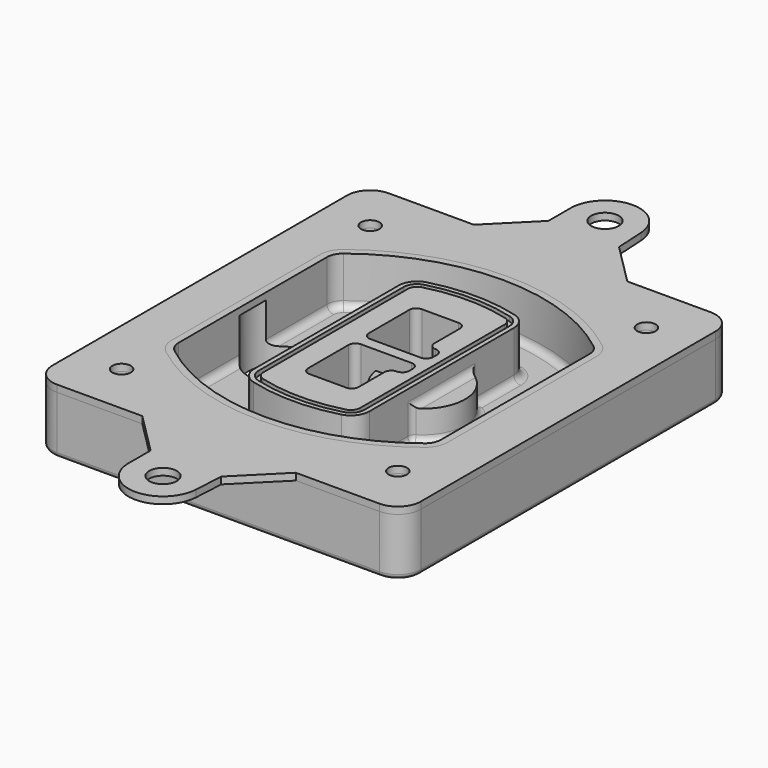
from build123d import *

# Parameters (mm, degrees)
F0_R      = 4
F1_DEPTH  = 25
F2_DEPTH  = 3
F3_DEPTH  = 18
F5_DEPTH  = 21
F6_DEPTH  = 2
F8_DEPTH  = 20
F9_DEPTH  = 16
F10_DEPTH = 25
F7_R      = 6
F7_R_2    = 4
F11_DEPTH = 6
F13_DEPTH = 9
F14_R     = 3
F15_R     = 2
F16_R     = 6
F16_R_2   = 4
F17_DEPTH = 3


with BuildPart() as f1:
    # F0 (on Top) → F1 (new body)
    with BuildSketch(Plane.XY):
        with BuildLine():
            ThreePointArc((-80, -80), (-77.0710678119, -87.0710678119), (-70, -90))
            Line((-70, -90), (70, -90))
            ThreePointArc((70, -90), (77.0710678119, -87.0710678119), (80, -80))
            Line((80, -80), (80, 80))
            ThreePointArc((80, 80), (77.0710678119, 87.0710678119), (70, 90))
            Line((70, 90), (-70, 90))
            ThreePointArc((-70, 90), (-77.0710678119, 87.0710678119), (-80, 80))
            Line((-80, 80), (-80, -80))
        make_face()
        with Locations((-60, -67.5)):
            Circle(F0_R, mode=Mode.SUBTRACT)
        with Locations((60, -67.5)):
            Circle(F0_R, mode=Mode.SUBTRACT)
        with Locations((-60, 67.5)):
            Circle(F0_R, mode=Mode.SUBTRACT)
        with BuildLine():
            ThreePointArc((-64, 40.2934422872), (-62.5820384798, 46.4328484224), (-58.6153846154, 51.3286200352))
            ThreePointArc((-58.6153846154, 51.3286200352), (0, 71.5), (58.6153846154, 51.3286200352))
            ThreePointArc((58.6153846154, 51.3286200352), (62.5820384798, 46.4328484224), (64, 40.2934422872))
            Line((64, 40.2934422872), (64, -40.2934422872))
            ThreePointArc((64, -40.2934422872), (62.5820384798, -46.4328484224), (58.6153846154, -51.3286200352))
            ThreePointArc((58.6153846154, -51.3286200352), (0, -71.5), (-58.6153846154, -51.3286200352))
            ThreePointArc((-58.6153846154, -51.3286200352), (-62.5820384798, -46.4328484224), (-64, -40.2934422872))
            Line((-64, -40.2934422872), (-64, 40.2934422872))
        make_face(mode=Mode.SUBTRACT)
        with Locations((60, 67.5)):
            Circle(F0_R, mode=Mode.SUBTRACT)
        with BuildLine():
            ThreePointArc((58.6153846154, 51.3286200352), (0, 71.5), (-58.6153846154, 51.3286200352))
            ThreePointArc((-58.6153846154, 51.3286200352), (-62.5820384798, 46.4328484224), (-64, 40.2934422872))
            Line((-64, 40.2934422872), (-64, -40.2934422872))
            ThreePointArc((-64, -40.2934422872), (-62.5820384798, -46.4328484224), (-58.6153846154, -51.3286200352))
            ThreePointArc((-58.6153846154, -51.3286200352), (0, -71.5), (58.6153846154, -51.3286200352))
            ThreePointArc((58.6153846154, -51.3286200352), (62.5820384798, -46.4328484224), (64, -40.2934422872))
            Line((64, -40.2934422872), (64, 40.2934422872))
            ThreePointArc((64, 40.2934422872), (62.5820384798, 46.4328484224), (58.6153846154, 51.3286200352))
        make_face()
        with BuildLine():
            Line((-60, -40.2934422872), (-60, 40.2934422872))
            ThreePointArc((-60, 40.2934422872), (-58.9871703427, 44.6787323838), (-56.1538461538, 48.1757121072))
            ThreePointArc((-56.1538461538, 48.1757121072), (0, 67.5), (56.1538461538, 48.1757121072))
            ThreePointArc((56.1538461538, 48.1757121072), (58.9871703427, 44.6787323838), (60, 40.2934422872))
            Line((60, 40.2934422872), (60, -40.2934422872))
            ThreePointArc((60, -40.2934422872), (58.9871703427, -44.6787323838), (56.1538461538, -48.1757121072))
            ThreePointArc((56.1538461538, -48.1757121072), (0, -67.5), (-56.1538461538, -48.1757121072))
            ThreePointArc((-56.1538461538, -48.1757121072), (-58.9871703427, -44.6787323838), (-60, -40.2934422872))
        make_face(mode=Mode.SUBTRACT)
        with BuildLine():
            ThreePointArc((-56.1538461538, 48.1757121072), (-58.9871703427, 44.6787323838), (-60, 40.2934422872))
            Line((-60, 40.2934422872), (-60, -40.2934422872))
            ThreePointArc((-60, -40.2934422872), (-58.9871703427, -44.6787323838), (-56.1538461538, -48.1757121072))
            ThreePointArc((-56.1538461538, -48.1757121072), (0, -67.5), (56.1538461538, -48.1757121072))
            ThreePointArc((56.1538461538, -48.1757121072), (58.9871703427, -44.6787323838), (60, -40.2934422872))
            Line((60, -40.2934422872), (60, 40.2934422872))
            ThreePointArc((60, 40.2934422872), (58.9871703427, 44.6787323838), (56.1538461538, 48.1757121072))
            ThreePointArc((56.1538461538, 48.1757121072), (0, 67.5), (-56.1538461538, 48.1757121072))
        make_face()
        with BuildLine():
            ThreePointArc((54.3076923077, 45.8110311612), (56.2910192399, 43.3631453548), (57, 40.2934422872))
            Line((57, 40.2934422872), (57, -40.2934422872))
            ThreePointArc((57, -40.2934422872), (56.2910192399, -43.3631453548), (54.3076923077, -45.8110311612))
            ThreePointArc((54.3076923077, -45.8110311612), (0, -64.5), (-54.3076923077, -45.8110311612))
            ThreePointArc((-54.3076923077, -45.8110311612), (-56.2910192399, -43.3631453548), (-57, -40.2934422872))
            Line((-57, -40.2934422872), (-57, 40.2934422872))
            ThreePointArc((-57, 40.2934422872), (-56.2910192399, 43.3631453548), (-54.3076923077, 45.8110311612))
            ThreePointArc((-54.3076923077, 45.8110311612), (0, 64.5), (54.3076923077, 45.8110311612))
        make_face(mode=Mode.SUBTRACT)
        with BuildLine():
            Line((57, -40.2934422872), (57, 40.2934422872))
            ThreePointArc((57, 40.2934422872), (56.2910192399, 43.3631453548), (54.3076923077, 45.8110311612))
            ThreePointArc((54.3076923077, 45.8110311612), (0, 64.5), (-54.3076923077, 45.8110311612))
            ThreePointArc((-54.3076923077, 45.8110311612), (-56.2910192399, 43.3631453548), (-57, 40.2934422872))
            Line((-57, 40.2934422872), (-57, -40.2934422872))
            ThreePointArc((-57, -40.2934422872), (-56.2910192399, -43.3631453548), (-54.3076923077, -45.8110311612))
            ThreePointArc((-54.3076923077, -45.8110311612), (0, -64.5), (54.3076923077, -45.8110311612))
            ThreePointArc((54.3076923077, -45.8110311612), (56.2910192399, -43.3631453548), (57, -40.2934422872))
        make_face()
    extrude(amount=-F1_DEPTH)

    # F0 (on Top) → F2 (join)
    with BuildSketch(Plane.XY):
        with BuildLine():
            ThreePointArc((-56.1538461538, 48.1757121072), (-58.9871703427, 44.6787323838), (-60, 40.2934422872))
            Line((-60, 40.2934422872), (-60, -40.2934422872))
            ThreePointArc((-60, -40.2934422872), (-58.9871703427, -44.6787323838), (-56.1538461538, -48.1757121072))
            ThreePointArc((-56.1538461538, -48.1757121072), (0, -67.5), (56.1538461538, -48.1757121072))
            ThreePointArc((56.1538461538, -48.1757121072), (58.9871703427, -44.6787323838), (60, -40.2934422872))
            Line((60, -40.2934422872), (60, 40.2934422872))
            ThreePointArc((60, 40.2934422872), (58.9871703427, 44.6787323838), (56.1538461538, 48.1757121072))
            ThreePointArc((56.1538461538, 48.1757121072), (0, 67.5), (-56.1538461538, 48.1757121072))
        make_face()
        with BuildLine():
            ThreePointArc((54.3076923077, 45.8110311612), (56.2910192399, 43.3631453548), (57, 40.2934422872))
            Line((57, 40.2934422872), (57, -40.2934422872))
            ThreePointArc((57, -40.2934422872), (56.2910192399, -43.3631453548), (54.3076923077, -45.8110311612))
            ThreePointArc((54.3076923077, -45.8110311612), (0, -64.5), (-54.3076923077, -45.8110311612))
            ThreePointArc((-54.3076923077, -45.8110311612), (-56.2910192399, -43.3631453548), (-57, -40.2934422872))
            Line((-57, -40.2934422872), (-57, 40.2934422872))
            ThreePointArc((-57, 40.2934422872), (-56.2910192399, 43.3631453548), (-54.3076923077, 45.8110311612))
            ThreePointArc((-54.3076923077, 45.8110311612), (0, 64.5), (54.3076923077, 45.8110311612))
        make_face(mode=Mode.SUBTRACT)
    extrude(amount=F2_DEPTH)

    # F0 (on Top) → F3 (cut)
    with BuildSketch(Plane.XY):
        with BuildLine():
            Line((57, -40.2934422872), (57, 40.2934422872))
            ThreePointArc((57, 40.2934422872), (56.2910192399, 43.3631453548), (54.3076923077, 45.8110311612))
            ThreePointArc((54.3076923077, 45.8110311612), (0, 64.5), (-54.3076923077, 45.8110311612))
            ThreePointArc((-54.3076923077, 45.8110311612), (-56.2910192399, 43.3631453548), (-57, 40.2934422872))
            Line((-57, 40.2934422872), (-57, -40.2934422872))
            ThreePointArc((-57, -40.2934422872), (-56.2910192399, -43.3631453548), (-54.3076923077, -45.8110311612))
            ThreePointArc((-54.3076923077, -45.8110311612), (0, -64.5), (54.3076923077, -45.8110311612))
            ThreePointArc((54.3076923077, -45.8110311612), (56.2910192399, -43.3631453548), (57, -40.2934422872))
        make_face()
    extrude(amount=-F3_DEPTH, mode=Mode.SUBTRACT)

    # F4 (on face) → F5 (join, through all)
    with BuildSketch(Plane.XY.offset(3)):
        with BuildLine():
            ThreePointArc((-25, -39.2465276821), (-23.3511545998, -44.1109737193), (-19.0842911877, -46.9702398883))
            ThreePointArc((-19.0842911877, -46.9702398883), (0, -49.5), (19.0842911877, -46.9702398883))
            ThreePointArc((19.0842911877, -46.9702398883), (23.3511545998, -44.1109737193), (25, -39.2465276821))
            Line((25, -39.2465276821), (25, 39.2465276821))
            ThreePointArc((25, 39.2465276821), (23.3511545998, 44.1109737193), (19.0842911877, 46.9702398883))
            ThreePointArc((19.0842911877, 46.9702398883), (0, 49.5), (-19.0842911877, 46.9702398883))
            ThreePointArc((-19.0842911877, 46.9702398883), (-23.3511545998, 44.1109737193), (-25, 39.2465276821))
            Line((-25, 39.2465276821), (-25, -39.2465276821))
        make_face()
        with BuildLine():
            ThreePointArc((18.5632183908, 45.0393118368), (21.7633659499, 42.89486221), (23, 39.2465276821))
            Line((23, 39.2465276821), (23, -39.2465276821))
            ThreePointArc((23, -39.2465276821), (21.7633659499, -42.89486221), (18.5632183908, -45.0393118368))
            ThreePointArc((18.5632183908, -45.0393118368), (0, -47.5), (-18.5632183908, -45.0393118368))
            ThreePointArc((-18.5632183908, -45.0393118368), (-21.7633659499, -42.89486221), (-23, -39.2465276821))
            Line((-23, -39.2465276821), (-23, 39.2465276821))
            ThreePointArc((-23, 39.2465276821), (-21.7633659499, 42.89486221), (-18.5632183908, 45.0393118368))
            ThreePointArc((-18.5632183908, 45.0393118368), (0, 47.5), (18.5632183908, 45.0393118368))
        make_face(mode=Mode.SUBTRACT)
        with BuildLine():
            Line((23, -39.2465276821), (23, 39.2465276821))
            ThreePointArc((23, 39.2465276821), (21.7633659499, 42.89486221), (18.5632183908, 45.0393118368))
            ThreePointArc((18.5632183908, 45.0393118368), (0, 47.5), (-18.5632183908, 45.0393118368))
            ThreePointArc((-18.5632183908, 45.0393118368), (-21.7633659499, 42.89486221), (-23, 39.2465276821))
            Line((-23, 39.2465276821), (-23, -39.2465276821))
            ThreePointArc((-23, -39.2465276821), (-21.7633659499, -42.89486221), (-18.5632183908, -45.0393118368))
            ThreePointArc((-18.5632183908, -45.0393118368), (0, -47.5), (18.5632183908, -45.0393118368))
            ThreePointArc((18.5632183908, -45.0393118368), (21.7633659499, -42.89486221), (23, -39.2465276821))
        make_face()
        with BuildLine():
            ThreePointArc((18.0421455939, 43.1083837852), (20.1755772999, 41.6787507007), (21, 39.2465276821))
            Line((21, 39.2465276821), (21, -39.2465276821))
            ThreePointArc((21, -39.2465276821), (20.1755772999, -41.6787507007), (18.0421455939, -43.1083837852))
            ThreePointArc((18.0421455939, -43.1083837852), (0, -45.5), (-18.0421455939, -43.1083837852))
            ThreePointArc((-18.0421455939, -43.1083837852), (-20.1755772999, -41.6787507007), (-21, -39.2465276821))
            Line((-21, -39.2465276821), (-21, 39.2465276821))
            ThreePointArc((-21, 39.2465276821), (-20.1755772999, 41.6787507007), (-18.0421455939, 43.1083837852))
            ThreePointArc((-18.0421455939, 43.1083837852), (0, 45.5), (18.0421455939, 43.1083837852))
        make_face(mode=Mode.SUBTRACT)
        with BuildLine():
            Line((21, -39.2465276821), (21, 39.2465276821))
            ThreePointArc((21, 39.2465276821), (20.1755772999, 41.6787507007), (18.0421455939, 43.1083837852))
            ThreePointArc((18.0421455939, 43.1083837852), (0, 45.5), (-18.0421455939, 43.1083837852))
            ThreePointArc((-18.0421455939, 43.1083837852), (-20.1755772999, 41.6787507007), (-21, 39.2465276821))
            Line((-21, 39.2465276821), (-21, -39.2465276821))
            ThreePointArc((-21, -39.2465276821), (-20.1755772999, -41.6787507007), (-18.0421455939, -43.1083837852))
            ThreePointArc((-18.0421455939, -43.1083837852), (0, -45.5), (18.0421455939, -43.1083837852))
            ThreePointArc((18.0421455939, -43.1083837852), (20.1755772999, -41.6787507007), (21, -39.2465276821))
        make_face()
        with BuildLine():
            Line((-8, -2.5), (14, -2.5))
            ThreePointArc((14, -2.5), (16.1213203436, -3.3786796564), (17, -5.5))
            Line((17, -5.5), (17, -7.5))
            ThreePointArc((17, -7.5), (16.1213203436, -9.6213203436), (14, -10.5))
            ThreePointArc((14, -10.5), (11.8786796564, -11.3786796564), (11, -13.5))
            Line((11, -13.5), (11, -27.5))
            ThreePointArc((11, -27.5), (10.1213203436, -29.6213203436), (8, -30.5))
            Line((8, -30.5), (-8, -30.5))
            ThreePointArc((-8, -30.5), (-10.1213203436, -29.6213203436), (-11, -27.5))
            Line((-11, -27.5), (-11, -5.5))
            ThreePointArc((-11, -5.5), (-10.1213203436, -3.3786796564), (-8, -2.5))
        make_face(mode=Mode.SUBTRACT)
        with BuildLine():
            ThreePointArc((-8, 2.5), (-10.1213203436, 3.3786796564), (-11, 5.5))
            Line((-11, 5.5), (-11, 27.5))
            ThreePointArc((-11, 27.5), (-10.1213203436, 29.6213203436), (-8, 30.5))
            Line((-8, 30.5), (8, 30.5))
            ThreePointArc((8, 30.5), (10.1213203436, 29.6213203436), (11, 27.5))
            Line((11, 27.5), (11, 13.5))
            ThreePointArc((11, 13.5), (11.8786796564, 11.3786796564), (14, 10.5))
            ThreePointArc((14, 10.5), (16.1213203436, 9.6213203436), (17, 7.5))
            Line((17, 7.5), (17, 5.5))
            ThreePointArc((17, 5.5), (16.1213203436, 3.3786796564), (14, 2.5))
            Line((14, 2.5), (-8, 2.5))
        make_face(mode=Mode.SUBTRACT)
    extrude(amount=-F5_DEPTH)

    # F4 (on face) → F6 (cut)
    with BuildSketch(Plane.XY.offset(3)):
        with BuildLine():
            Line((23, -39.2465276821), (23, 39.2465276821))
            ThreePointArc((23, 39.2465276821), (21.7633659499, 42.89486221), (18.5632183908, 45.0393118368))
            ThreePointArc((18.5632183908, 45.0393118368), (0, 47.5), (-18.5632183908, 45.0393118368))
            ThreePointArc((-18.5632183908, 45.0393118368), (-21.7633659499, 42.89486221), (-23, 39.2465276821))
            Line((-23, 39.2465276821), (-23, -39.2465276821))
            ThreePointArc((-23, -39.2465276821), (-21.7633659499, -42.89486221), (-18.5632183908, -45.0393118368))
            ThreePointArc((-18.5632183908, -45.0393118368), (0, -47.5), (18.5632183908, -45.0393118368))
            ThreePointArc((18.5632183908, -45.0393118368), (21.7633659499, -42.89486221), (23, -39.2465276821))
        make_face()
        with BuildLine():
            ThreePointArc((18.0421455939, 43.1083837852), (20.1755772999, 41.6787507007), (21, 39.2465276821))
            Line((21, 39.2465276821), (21, -39.2465276821))
            ThreePointArc((21, -39.2465276821), (20.1755772999, -41.6787507007), (18.0421455939, -43.1083837852))
            ThreePointArc((18.0421455939, -43.1083837852), (0, -45.5), (-18.0421455939, -43.1083837852))
            ThreePointArc((-18.0421455939, -43.1083837852), (-20.1755772999, -41.6787507007), (-21, -39.2465276821))
            Line((-21, -39.2465276821), (-21, 39.2465276821))
            ThreePointArc((-21, 39.2465276821), (-20.1755772999, 41.6787507007), (-18.0421455939, 43.1083837852))
            ThreePointArc((-18.0421455939, 43.1083837852), (0, 45.5), (18.0421455939, 43.1083837852))
        make_face(mode=Mode.SUBTRACT)
    extrude(amount=-F6_DEPTH, mode=Mode.SUBTRACT)

    # F7 (on face) → F8 (join)
    with BuildSketch(Plane(origin=(0, 0, -25), x_dir=(1, 0, 0), z_dir=(0, 0, -1))):
        with BuildLine():
            ThreePointArc((3.28842436, 0), (16.7567035675, 13.4682792075), (30.224982775, 0))
            Line((30.224982775, 0), (35.224982775, 0))
            ThreePointArc((35.224982775, 0), (16.7567035675, 18.4682792075), (-1.71157564, 0))
            Line((-1.71157564, 0), (3.28842436, 0))
        make_face()
        with BuildLine():
            Line((3.28842436, 0), (30.224982775, 0))
            ThreePointArc((30.224982775, 0), (16.7567035675, 13.4682792075), (3.28842436, 0))
        make_face()
        with BuildLine():
            ThreePointArc((3.28842436, 0), (16.7567035675, -13.4682792075), (30.224982775, 0))
            Line((30.224982775, 0), (3.28842436, 0))
        make_face()
        with BuildLine():
            Line((35.224982775, 0), (30.224982775, 0))
            ThreePointArc((30.224982775, 0), (16.7567035675, -13.4682792075), (3.28842436, 0))
            Line((3.28842436, 0), (-1.71157564, 0))
            ThreePointArc((-1.71157564, 0), (16.7567035675, -18.4682792075), (35.224982775, 0))
        make_face()
    extrude(amount=-F8_DEPTH)

    # F7 (on face) → F9 (cut)
    with BuildSketch(Plane(origin=(0, 0, -25), x_dir=(1, 0, 0), z_dir=(0, 0, -1))):
        with BuildLine():
            Line((3.28842436, 0), (30.224982775, 0))
            ThreePointArc((30.224982775, 0), (16.7567035675, 13.4682792075), (3.28842436, 0))
        make_face()
        with BuildLine():
            ThreePointArc((3.28842436, 0), (16.7567035675, -13.4682792075), (30.224982775, 0))
            Line((30.224982775, 0), (3.28842436, 0))
        make_face()
    extrude(amount=-F9_DEPTH, mode=Mode.SUBTRACT)

    # F7 (on face) → F10 (cut)
    with BuildSketch(Plane(origin=(0, 0, -25), x_dir=(1, 0, 0), z_dir=(0, 0, -1))):
        with BuildLine():
            Line((-59.0318229325, 0), (-32.0952645175, 0))
            ThreePointArc((-32.0952645175, 0), (-45.563543725, 13.4682792075), (-59.0318229325, 0))
        make_face()
        with BuildLine():
            ThreePointArc((-59.0318229325, 0), (-45.563543725, -13.4682792075), (-32.0952645175, 0))
            Line((-32.0952645175, 0), (-59.0318229325, 0))
        make_face()
    extrude(amount=-F10_DEPTH, mode=Mode.SUBTRACT)

    # F7 (on face) → F11 (cut)
    with BuildSketch(Plane(origin=(0, 0, -25), x_dir=(1, 0, 0), z_dir=(0, 0, -1))):
        with Locations((60, -67.5)):
            Circle(F7_R)
        with Locations((60, -67.5)):
            Circle(F7_R_2, mode=Mode.SUBTRACT)
        with Locations((60, -67.5)):
            Circle(F7_R)
        with Locations((60, -67.5)):
            Circle(F7_R_2, mode=Mode.SUBTRACT)
        with Locations((-60, -67.5)):
            Circle(F7_R)
        with Locations((-60, -67.5)):
            Circle(F7_R_2, mode=Mode.SUBTRACT)
        with Locations((-60, -67.5)):
            Circle(F7_R)
        with Locations((-60, -67.5)):
            Circle(F7_R_2, mode=Mode.SUBTRACT)
        with Locations((-60, 67.5)):
            Circle(F7_R)
        with Locations((-60, 67.5)):
            Circle(F7_R_2, mode=Mode.SUBTRACT)
        with Locations((-60, 67.5)):
            Circle(F7_R)
        with Locations((-60, 67.5)):
            Circle(F7_R_2, mode=Mode.SUBTRACT)
        with Locations((60, 67.5)):
            Circle(F7_R)
        with Locations((60, 67.5)):
            Circle(F7_R_2, mode=Mode.SUBTRACT)
        with Locations((60, 67.5)):
            Circle(F7_R)
        with Locations((60, 67.5)):
            Circle(F7_R_2, mode=Mode.SUBTRACT)
    extrude(amount=-F11_DEPTH, mode=Mode.SUBTRACT)

    # F12 (on face) → F13 (cut, through all)
    with BuildSketch(Plane(origin=(0, 0, -9), x_dir=(1, 0, 0), z_dir=(0, 0, -1))):
        with BuildLine():
            Line((11, 13.5), (11, 17.5481537753))
            ThreePointArc((11, 17.5481537753), (2.5696536419, 11.8239143813), (-1.5415842455, 2.5))
            Line((-1.5415842455, 2.5), (3.5224848595, 2.5))
            ThreePointArc((3.5224848595, 2.5), (6.1857188154, 8.3455872281), (11.2536447004, 12.2927168648))
            ThreePointArc((11.2536447004, 12.2927168648), (11.0640958889, 12.8831798879), (11, 13.5))
        make_face()
        with BuildLine():
            ThreePointArc((11.2536447004, -12.2927168648), (6.1857188154, -8.3455872281), (3.5224848595, -2.5))
            Line((3.5224848595, -2.5), (-1.5415842455, -2.5))
            ThreePointArc((-1.5415842455, -2.5), (2.5696536419, -11.8239143813), (11, -17.5481537753))
            Line((11, -17.5481537753), (11, -13.5))
            ThreePointArc((11, -13.5), (11.0640958889, -12.8831798879), (11.2536447004, -12.2927168648))
        make_face()
        with BuildLine():
            ThreePointArc((11.2536447004, 12.2927168648), (6.1857188154, 8.3455872281), (3.5224848595, 2.5))
            Line((3.5224848595, 2.5), (14, 2.5))
            ThreePointArc((14, 2.5), (16.1213203436, 3.3786796564), (17, 5.5))
            Line((17, 5.5), (17, 7.5))
            ThreePointArc((17, 7.5), (16.1213203436, 9.6213203436), (14, 10.5))
            ThreePointArc((14, 10.5), (12.3601599782, 10.9878446101), (11.2536447004, 12.2927168648))
        make_face()
        with BuildLine():
            Line((14, -2.5), (3.5224848595, -2.5))
            ThreePointArc((3.5224848595, -2.5), (6.1857188154, -8.3455872281), (11.2536447004, -12.2927168648))
            ThreePointArc((11.2536447004, -12.2927168648), (12.3601599782, -10.9878446101), (14, -10.5))
            ThreePointArc((14, -10.5), (16.1213203436, -9.6213203436), (17, -7.5))
            Line((17, -7.5), (17, -5.5))
            ThreePointArc((17, -5.5), (16.1213203436, -3.3786796564), (14, -2.5))
        make_face()
    extrude(amount=F13_DEPTH, mode=Mode.SUBTRACT)

    # F14
    f14_edges = [f1.edges().sort_by_distance(p)[0] for p in [
        (-57, -23.703476, -18),
        (-57, 23.703476, -18),
        (25, 0, -5),
        (25, 16.526506, -11.5),
        (25, -16.526506, -11.5),
        (25, -27.886517, -18),
        (35.224983, 0, -18),
    ]]
    fillet(f14_edges, radius=F14_R)

    # F15
    f15_edges = [f1.edges().sort_by_distance(p)[0] for p in [
        (0, -90, -25),
    ]]
    fillet(f15_edges, radius=F15_R)


with BuildPart() as f17:
    # F16 (on face) → F17 (new body, through all)
    with BuildSketch(Plane.XY):
        with BuildLine():
            Line((15.6845540707, 108), (14.9772430558, 120.8259482115))
            ThreePointArc((14.9772430558, 120.8259482115), (0.0097592537, 134.9999968252), (-14.9761556244, 120.8454364035))
            Line((-14.9761556244, 120.8454364035), (-14.9761556244, 108))
            Line((-14.9761556244, 108), (-32.9761556244, 90))
            Line((-32.9761556244, 90), (33.6845540707, 90))
            Line((33.6845540707, 90), (15.6845540707, 108))
        make_face()
        with Locations((0, 120)):
            Circle(F16_R, mode=Mode.SUBTRACT)
        with BuildLine():
            Line((15.6845540707, -108), (33.6845540707, -90))
            Line((33.6845540707, -90), (-32.9761556244, -90))
            Line((-32.9761556244, -90), (-14.9761556244, -108))
            Line((-14.9761556244, -108), (-14.9761556244, -120.8454364035))
            ThreePointArc((-14.9761556244, -120.8454364035), (0.0097592537, -134.9999968252), (14.9772430558, -120.8259482115))
            Line((14.9772430558, -120.8259482115), (15.6845540707, -108))
        make_face()
        with Locations((0, -120)):
            Circle(F16_R, mode=Mode.SUBTRACT)
        with BuildLine():
            Line((70, 90), (33.6845540707, 90))
            Line((33.6845540707, 90), (-32.9761556244, 90))
            Line((-32.9761556244, 90), (-70, 90))
            ThreePointArc((-70, 90), (-77.0710678119, 87.0710678119), (-80, 80))
            Line((-80, 80), (-80, -80))
            ThreePointArc((-80, -80), (-77.0710678119, -87.0710678119), (-70, -90))
            Line((-70, -90), (-32.9761556244, -90))
            Line((-32.9761556244, -90), (33.6845540707, -90))
            Line((33.6845540707, -90), (70, -90))
            ThreePointArc((70, -90), (77.0710678119, -87.0710678119), (80, -80))
            Line((80, -80), (80, 80))
            ThreePointArc((80, 80), (77.0710678119, 87.0710678119), (70, 90))
        make_face()
        with Locations((-60, -67.5)):
            Circle(F16_R_2, mode=Mode.SUBTRACT)
        with Locations((60, -67.5)):
            Circle(F16_R_2, mode=Mode.SUBTRACT)
        with Locations((-60, 67.5)):
            Circle(F16_R_2, mode=Mode.SUBTRACT)
        with BuildLine():
            ThreePointArc((-60, 40.2934422872), (-58.9871703427, 44.6787323838), (-56.1538461538, 48.1757121072))
            ThreePointArc((-56.1538461538, 48.1757121072), (0, 67.5), (56.1538461538, 48.1757121072))
            ThreePointArc((56.1538461538, 48.1757121072), (58.9871703427, 44.6787323838), (60, 40.2934422872))
            Line((60, 40.2934422872), (60, -40.2934422872))
            ThreePointArc((60, -40.2934422872), (58.9871703427, -44.6787323838), (56.1538461538, -48.1757121072))
            ThreePointArc((56.1538461538, -48.1757121072), (0, -67.5), (-56.1538461538, -48.1757121072))
            ThreePointArc((-56.1538461538, -48.1757121072), (-58.9871703427, -44.6787323838), (-60, -40.2934422872))
            Line((-60, -40.2934422872), (-60, 40.2934422872))
        make_face(mode=Mode.SUBTRACT)
        with Locations((60, 67.5)):
            Circle(F16_R_2, mode=Mode.SUBTRACT)
    extrude(amount=F17_DEPTH)


solid = Compound([f1.part, f17.part])
